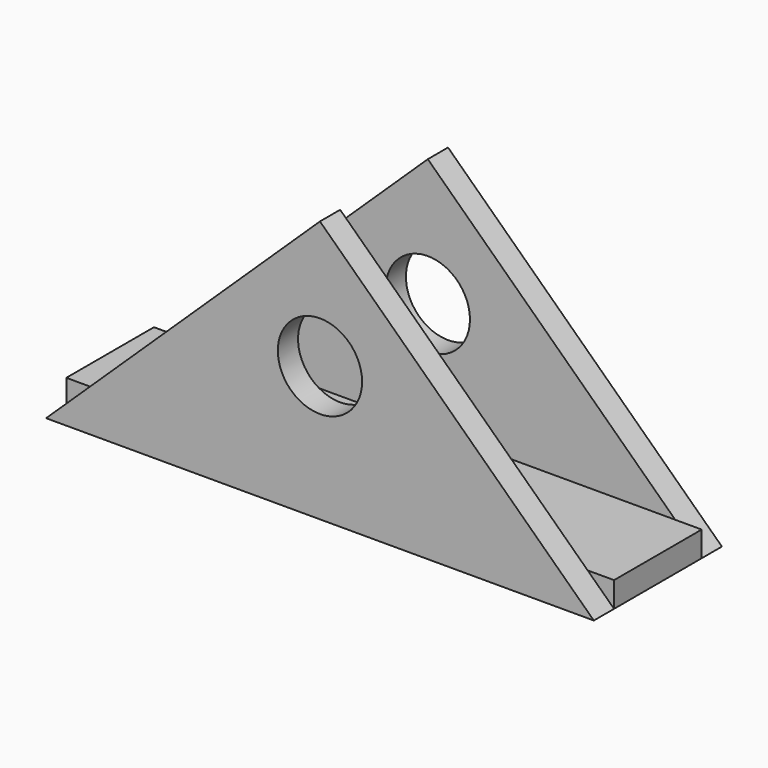
from build123d import *

# Parameters (mm, degrees)
F2_DEPTH = 3
F4_W     = 65
F4_H     = 13
F5_DEPTH = 3
F6_R     = 5
F7_DEPTH = 12.5


with BuildPart() as f2:
    # F1 (on offset) → F2 (new body)
    with BuildSketch(Plane.XZ.offset(6.5)):
        Polygon((37.512457, 34.930761), (5.012457, 3.806012), (70.012457, 3.806012), align=None)
    extrude(amount=F2_DEPTH)


with BuildPart() as f3_1:
    # F3: instance of F2
    add(f2.part.mirror(Plane.XZ))


with BuildPart() as f5:
    # F4 (on face) → F5 (new body)
    with BuildSketch(Plane(origin=(0, 0, 3.806012), x_dir=(1, 0, 0), z_dir=(0, 0, -1))):
        with Locations((37.512457, 0)):
            Rectangle(F4_W, F4_H)
    extrude(amount=-F5_DEPTH)


with BuildPart() as f7_tool:
    # F6 (on Front) → F7 (new body, symmetric)
    with BuildSketch(Plane.XZ):
        with Locations((37.512457, 19.806012)):
            Circle(F6_R)
    extrude(amount=F7_DEPTH, both=True)


with BuildPart() as f2_1:
    add(f2.part)

    # F7: cut by f7_tool
    add(f7_tool.part, mode=Mode.SUBTRACT)


with BuildPart() as f3_1_1:
    add(f3_1.part)

    # F7: cut by f7_tool
    add(f7_tool.part, mode=Mode.SUBTRACT)


solid = Compound([f5.part, f2_1.part, f3_1_1.part])
